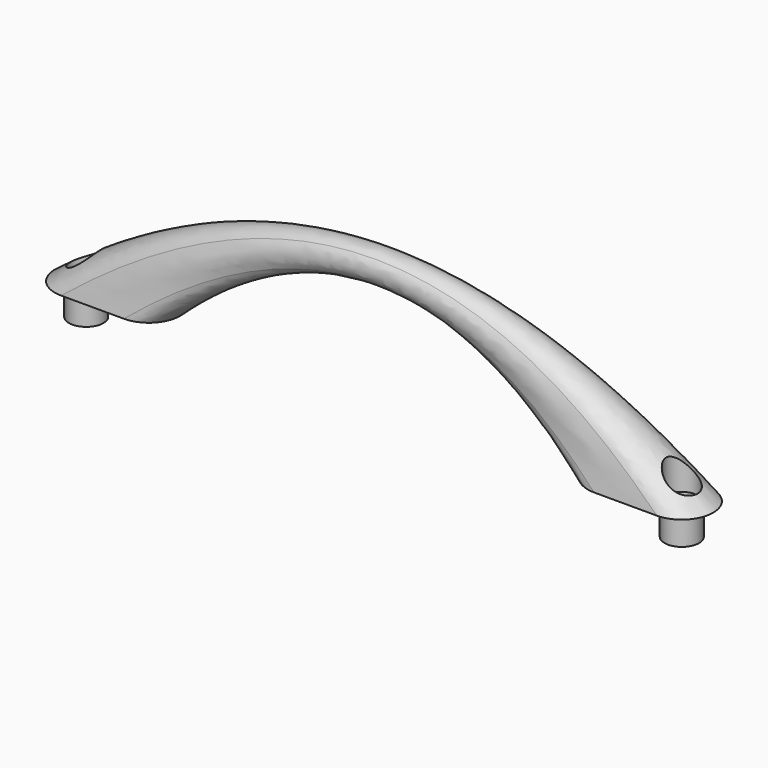
from build123d import *

# Parameters (mm, degrees)
SKETCH001_R   = 5
SKETCH003_R   = 5
POCKET_DEPTH  = 39.997504
SKETCH004_R   = 5.5
SKETCH004_R_2 = 3
PAD_DEPTH     = 10


with BuildPart() as part:
    # Sketch → AdditiveLoft section 0
    with BuildSketch(Plane.XY):
        with BuildLine():
            ThreePointArc((-95, 10), (-105, 0), (-95, -10))
            Line((-95, -10), (-75, -10))
            ThreePointArc((-75, -10), (-65, 0), (-75, 10))
            Line((-95, 10), (-75, 10))
        make_face()
    # Sketch001 → AdditiveLoft section 1
    with BuildSketch(Plane.YZ):
        with Locations((0, 35)):
            Circle(SKETCH001_R)
    # Sketch002 → AdditiveLoft section 2
    with BuildSketch(Plane.XY):
        with BuildLine():
            ThreePointArc((75, 10), (65, 0), (75, -10))
            Line((75, -10), (95, -10))
            ThreePointArc((95, -10), (105, 0), (95, 10))
            Line((75, 10), (95, 10))
        make_face()
    loft()

    # Sketch003 (on Face1 of AdditiveLoft) → Pocket (cut, through all)
    with BuildSketch(Plane(origin=(0, 0, 0), x_dir=(1, 0, 0), z_dir=(0, 0, -1))):
        with Locations((-95, 0)):
            Circle(SKETCH003_R)
        with Locations((95, 0)):
            Circle(SKETCH003_R)
    extrude(amount=-POCKET_DEPTH, mode=Mode.SUBTRACT)

    # Sketch004 (on Face8 of Pocket) → Pad (join)
    with BuildSketch(Plane(origin=(0, 0, 0), x_dir=(1, 0, 0), z_dir=(0, 0, -1))):
        with Locations((-95, 0)):
            Circle(SKETCH004_R)
        with Locations((-95, 0)):
            Circle(SKETCH004_R_2, mode=Mode.SUBTRACT)
        with Locations((95, 0)):
            Circle(SKETCH004_R)
        with Locations((95, 0)):
            Circle(SKETCH004_R_2, mode=Mode.SUBTRACT)
    extrude(amount=PAD_DEPTH)


solid = part.part
